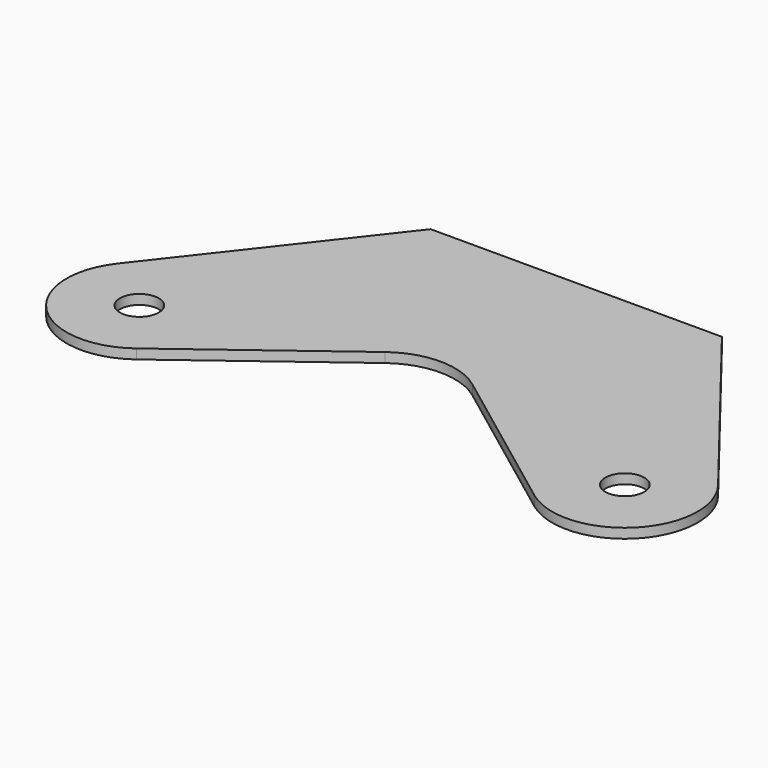
from build123d import *

# Parameters (mm, degrees)
F0_R     = 4
F1_DEPTH = 2


with BuildPart() as f1:
    # F0 (on Top) → F1 (new body)
    with BuildSketch(Plane.XY):
        with BuildLine():
            Line((-30, 50), (-61.824242, 9.229697))
            ThreePointArc((-61.824242, 9.229697), (-60.708366, -10.503852), (-41, -12))
            Line((-41, -12), (-9, 12))
            ThreePointArc((-9, 12), (0, 15), (9, 12))
            Line((9, 12), (41, -12))
            ThreePointArc((41, -12), (60.708366, -10.503852), (61.824242, 9.229697))
            Line((61.824242, 9.229697), (30, 50))
            Line((30, 50), (-30, 50))
        make_face()
        with Locations((-50, 0)):
            Circle(F0_R, mode=Mode.SUBTRACT)
        with Locations((50, 0)):
            Circle(F0_R, mode=Mode.SUBTRACT)
    extrude(amount=F1_DEPTH)


solid = f1.part
